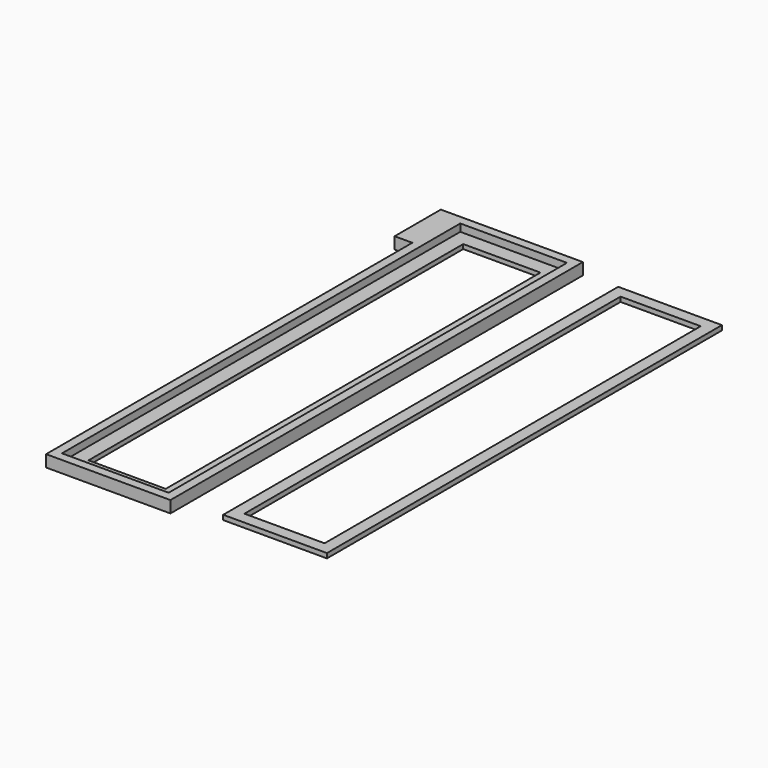
from build123d import *

# Parameters (mm, degrees)
F0_W     = 21.1
F0_H     = 87.47
F0_W_2   = 13.1
F0_H_2   = 79.47
F1_DEPTH = 2
F2_W     = 18.1
F2_H     = 84.47
F3_DEPTH = 1.25
F4_W     = 17.6
F4_H     = 83.77
F4_W_2   = 13.6
F4_H_2   = 79.77
F5_DEPTH = 0.8
F6_W     = 9.8
F6_H     = 2
F7_DEPTH = 3


with BuildPart() as f1:
    # F0 (on Top) → F1 (new body)
    with BuildSketch(Plane.XY):
        with Locations((10.55, 43.735)):
            Rectangle(F0_W, F0_H)
        with Locations((10.55, 43.735)):
            Rectangle(F0_W_2, F0_H_2, mode=Mode.SUBTRACT)
    extrude(amount=F1_DEPTH)

    # F2 (on face) → F3 (cut)
    with BuildSketch(Plane.XY.offset(2)):
        with Locations((10.55, 43.735)):
            Rectangle(F2_W, F2_H)
    extrude(amount=-F3_DEPTH, mode=Mode.SUBTRACT)

    # F6 (on face) → F7 (join)
    with BuildSketch(Plane(origin=(0, 0, 0), x_dir=(0, -1, 0), z_dir=(-1, 0, 0))):
        with Locations((-82.57, 1)):
            Rectangle(F6_W, F6_H)
    extrude(amount=F7_DEPTH)


with BuildPart() as f5:
    # F4 (on Top) → F5 (new body)
    with BuildSketch(Plane.XY):
        with Locations((36.552641, 44.763047)):
            Rectangle(F4_W, F4_H)
        with Locations((36.552641, 44.763047)):
            Rectangle(F4_W_2, F4_H_2, mode=Mode.SUBTRACT)
    extrude(amount=F5_DEPTH)


solid = Compound([f1.part, f5.part])
